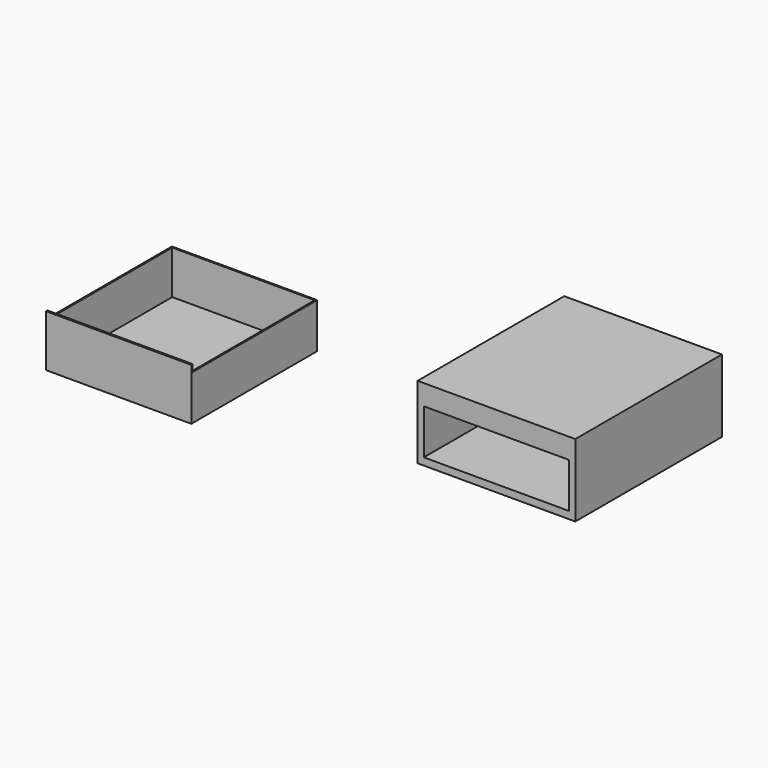
from build123d import *

# Parameters (mm, degrees)
F0_W     = 456
F0_H     = 530
F1_DEPTH = 210
F2_W     = 420
F2_H     = 130
F3_DEPTH = 450
F4_W     = 420
F4_H     = 450
F5_DEPTH = 130
F6_W     = 412
F6_H     = 446
F7_DEPTH = 126
F8_W     = 420
F8_H     = 150
F9_DEPTH = 5


with BuildPart() as f1:
    # F0 (on Top) → F1 (new body)
    with BuildSketch(Plane.XY):
        Rectangle(F0_W, F0_H)
    extrude(amount=F1_DEPTH)

    # F2 (on face) → F3 (cut)
    with BuildSketch(Plane.XZ.offset(265)):
        with Locations((0, 86)):
            Rectangle(F2_W, F2_H)
    extrude(amount=-F3_DEPTH, mode=Mode.SUBTRACT)


with BuildPart() as f5:
    # F4 (on Top) → F5 (new body)
    with BuildSketch(Plane.XY):
        with Locations((-957.631946, -203.518585)):
            Rectangle(F4_W, F4_H)
    extrude(amount=F5_DEPTH)

    # F6 (on face) → F7 (cut)
    with BuildSketch(Plane.XY.offset(130)):
        with Locations((-957.631946, -205.518585)):
            Rectangle(F6_W, F6_H)
    extrude(amount=-F7_DEPTH, mode=Mode.SUBTRACT)

    # F8 (on face) → F9 (join)
    with BuildSketch(Plane.XZ.offset(428.518585)):
        with Locations((-957.631946, 75)):
            Rectangle(F8_W, F8_H)
        with Locations((-957.631946, 75)):
            Rectangle(F8_W, F8_H)
    extrude(amount=F9_DEPTH)


solid = Compound([f1.part, f5.part])
